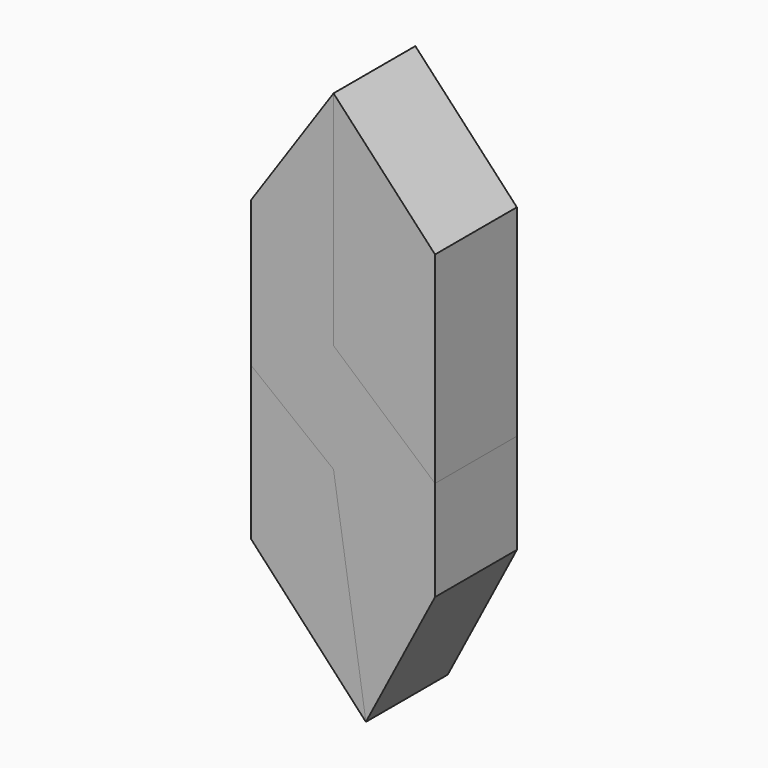
from build123d import *

# Parameters (mm, degrees)
F1_DEPTH = 25.4
F3_D     = 6.35
F5_D     = 6.35
F9_DEPTH = 25.4


with BuildPart() as f1:
    # F0 (on Front) → F1 (new body)
    with BuildSketch(Plane.XZ):
        with BuildLine():
            ThreePointArc((-128.3751209868, 39.6007452949), (-129.552340494, 9.5896363142), (-103.3479430395, 24.2655370384))
            ThreePointArc((-103.3479430395, 24.2655370384), (-104.9362182853, 31.4871507031), (-109.4079183306, 37.3759723918))
            ThreePointArc((-109.4079183306, 37.3759723918), (-118.5546653052, 41.3601956851), (-128.3751209868, 39.6007452949))
        make_face()
        with BuildLine():
            ThreePointArc((-128.3751209868, 39.6007452949), (-118.5546653052, 41.3601956851), (-109.4079183306, 37.3759723918))
            Line((-109.4079183306, 37.3759723918), (-106.4278815586, 143.8075241849))
            ThreePointArc((-106.4278815586, 143.8075241849), (-115.3981395679, 141.5406720569), (-124.418582657, 143.5987667583))
            Line((-124.418582657, 143.5987667583), (-128.3751209868, 39.6007452949))
        make_face()
        with BuildLine():
            ThreePointArc((-124.418582657, 143.5987667583), (-115.3981395679, 141.5406720569), (-106.4278815586, 143.8075241849))
            ThreePointArc((-106.4278815586, 143.8075241849), (-98.6897050309, 151.0931461836), (-95.8360031708, 161.3311171532))
            ThreePointArc((-95.8360031708, 161.3311171532), (-126.0615922734, 178.149262864), (-124.418582657, 143.5987667583))
        make_face()
    extrude(amount=F1_DEPTH)

    # F3 (through all)
    with Locations(Plane(origin=(0, 0, 0), x_dir=(1, 0, 0), z_dir=(0, 1, 0))):
        with Locations((-119.4135472178, -24.9353405088)):
            Hole(F3_D / 2)

    # F5 (through all)
    with Locations(Plane(origin=(0, 0, 0), x_dir=(1, 0, 0), z_dir=(0, 1, 0))):
        with Locations((-114.6405717434, -176.6452617808)):
            Hole(F5_D / 2)


with BuildPart() as f9:
    # F8 (on face) → F9 (new body)
    with BuildSketch(Plane.XZ):
        Polygon((-14.4283715636, -10.9582594596), (-39.6323725581, 10.9582599252), (-39.6323725581, 66.1148354411), (-60.0877888501, 36.1622571945), (-60.0877888501, 0), (-39.6323725581, -16.0721149296), (-31.596314162, -68.6717629433), (-14.4283715636, -35.7969813049), align=None)
    extrude(amount=F9_DEPTH)


with BuildPart() as f9b:
    # F7 (on Front) → F9, piece 2 (new body)
    with BuildSketch(Plane.XZ):
        Polygon((-14.4283715636, 39.084456861), (-39.6323725581, 66.1148354411), (-39.6323725581, 10.9582599252), (-14.4283715636, -10.9582594596), (-14.4283715636, 13.8804623857), align=None)
    extrude(amount=F9_DEPTH)


with BuildPart() as f9c:
    # F7 (on Front) → F9, piece 3 (new body)
    with BuildSketch(Plane.XZ):
        Polygon((-39.6323725581, -16.0721149296), (-60.0877888501, 0), (-60.0877888501, -37.9886329174), (-31.596314162, -68.6717629433), align=None)
    extrude(amount=F9_DEPTH)


solid = Compound([f9.part, f9b.part, f9c.part])
